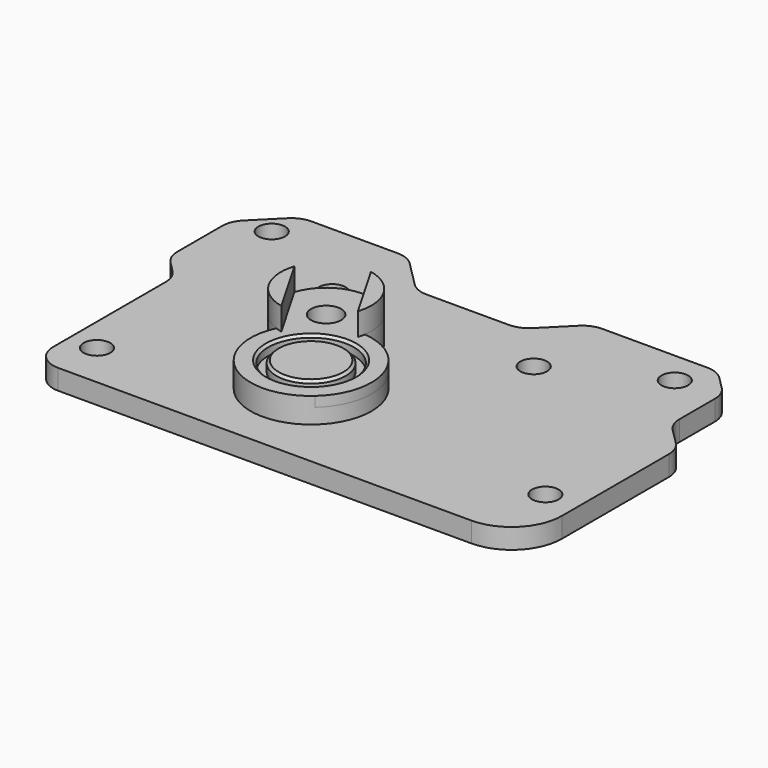
from build123d import *

# Parameters (mm, degrees)
SKETCH_R        = 12
SKETCH_R_2      = 8.5
PAD_DEPTH       = 2
SKETCH001_R     = 8.5
SKETCH001_R_2   = 3
PAD001_DEPTH    = 5
SKETCH002_R     = 8.5
PAD002_DEPTH    = 3
SKETCH003_R     = 6.9
PAD003_DEPTH    = 2
PAD004_DEPTH    = 4.5
SKETCH006_R     = 3
POCKET_DEPTH    = 5
SKETCH005_R     = 2.65
PAD005_DEPTH    = 4
POCKET001_DEPTH = 5
FILLET_R        = 5
FILLET001_R     = 10
FILLET002_R     = 5
FILLET003_R     = 5
FILLET004_R     = 5
FILLET005_R     = 5
CHAMFER_SIZE    = 0.5
CHAMFER001_SIZE = 0.5


with BuildPart() as part:
    # Sketch → Pad (new body)
    with BuildSketch(Plane.XY):
        with Locations((-10, 0)):
            Circle(SKETCH_R)
        with Locations((-10, 0)):
            Circle(SKETCH_R_2, mode=Mode.SUBTRACT)
    extrude(amount=PAD_DEPTH)

    # Sketch001 (on Face4 of Pad) → Pad001 (join)
    with BuildSketch(Plane.XY.offset(2)):
        with BuildLine():
            ThreePointArc((-20.910313, 4.996507), (-4, -10.392305), (-8.871946, 11.946861))
            ThreePointArc((-8.871946, 11.946861), (-22.25, 21.217622), (-20.910313, 4.996507))
        make_face()
        with Locations((-10, 0)):
            Circle(SKETCH001_R, mode=Mode.SUBTRACT)
        with Locations((-17.75, 13.423394)):
            Circle(SKETCH001_R_2, mode=Mode.SUBTRACT)
    extrude(amount=-PAD001_DEPTH)

    # Sketch002 (on Face6 of Pad001) → Pad002 (join)
    with BuildSketch(Plane(origin=(0, 0, -3), x_dir=(1, 0, 0), z_dir=(0, 0, -1))):
        with Locations((-10, 0)):
            Circle(SKETCH002_R)
    extrude(amount=-PAD002_DEPTH)

    # Sketch003 (on Face11 of Pad002) → Pad003 (join)
    with BuildSketch(Plane.XY):
        with Locations((-10, 0)):
            Circle(SKETCH003_R)
    extrude(amount=PAD003_DEPTH)

    # Sketch004 (on Face7 of Pad003) → Pad004 (join)
    with BuildSketch(Plane.XY.offset(2)):
        with BuildLine():
            Line((-26.300254, 16.232869), (-19.59205, 4.613919))
            ThreePointArc((-26.300254, 16.232869), (-25.544229, 8.923394), (-19.59205, 4.613919))
        make_face()
        with BuildLine():
            Line((-9.199746, 10.613919), (-15.90795, 22.232869))
            ThreePointArc((-9.199746, 10.613919), (-9.955771, 17.923394), (-15.90795, 22.232869))
        make_face()
    extrude(amount=PAD004_DEPTH)

    # Sketch006 → Pocket (cut)
    with BuildSketch(Plane.XY.offset(-3)):
        with Locations((-17.75, 13.423394)):
            Circle(SKETCH006_R)
    extrude(amount=-POCKET_DEPTH, mode=Mode.SUBTRACT)

    # Sketch005 (on Face19 of Pad004) → Pad005 (join)
    with BuildSketch(Plane.XY.offset(-3)):
        Polygon((-50, -19), (47, -19), (47, 16), (47, 19.612766), (40.954486, 25.65828), (40.954486, 38.553597), (35.588654, 43.919429), (10.631642, 43.919429), (2.616306, 35.904092), (-17.846332, 35.904092), (-25.861669, 43.919429), (-47.134287, 43.919429), (-54.927801, 36.125915), (-54.927801, 20.927801), (-50, 16), align=None)
        with Locations((40.5, -5)):
            Circle(SKETCH005_R, mode=Mode.SUBTRACT)
        with Locations((-27.75, 27.423394)):
            Circle(SKETCH005_R, mode=Mode.SUBTRACT)
        with Locations((-47.75, 37.423394)):
            Circle(SKETCH005_R, mode=Mode.SUBTRACT)
        with Locations((32.25, 37.423394)):
            Circle(SKETCH005_R, mode=Mode.SUBTRACT)
        with Locations((12.25, 27.423394)):
            Circle(SKETCH005_R, mode=Mode.SUBTRACT)
        with Locations((-44.5, -10)):
            Circle(SKETCH005_R, mode=Mode.SUBTRACT)
    extrude(amount=-PAD005_DEPTH)

    # Sketch008 (on Face5 of Pad005) → Pocket001 (cut)
    with BuildSketch(Plane(origin=(0, 0, -7), x_dir=(1, 0, 0), z_dir=(0, 0, -1))):
        Polygon((-20.75, -8.227241), (-23.75, -13.423394), (-20.75, -18.619546), (-14.75, -18.619546), (-11.75, -13.423394), (-14.75, -8.227241), align=None)
    extrude(amount=-POCKET001_DEPTH, mode=Mode.SUBTRACT)

    # Fillet
    fillet_edges = [part.edges().sort_by_distance(p)[0] for p in [
        (-50, -19, -5),
    ]]
    fillet(fillet_edges, radius=FILLET_R)

    # Fillet001
    fillet001_edges = [part.edges().sort_by_distance(p)[0] for p in [
        (47, -19, -5),
    ]]
    fillet(fillet001_edges, radius=FILLET001_R)

    # Fillet002
    fillet002_edges = [part.edges().sort_by_distance(p)[0] for p in [
        (-50, 16, -5),
    ]]
    fillet(fillet002_edges, radius=FILLET002_R)

    # Fillet003
    fillet003_edges = [part.edges().sort_by_distance(p)[0] for p in [
        (-54.927801, 20.927801, -5),
        (-54.927801, 36.125915, -5),
    ]]
    fillet(fillet003_edges, radius=FILLET003_R)

    # Fillet004
    fillet004_edges = [part.edges().sort_by_distance(p)[0] for p in [
        (-47.134287, 43.919429, -5),
        (-25.861669, 43.919429, -5),
        (-17.846332, 35.904092, -5),
        (2.616306, 35.904092, -5),
        (10.631642, 43.919429, -5),
        (35.588654, 43.919429, -5),
    ]]
    fillet(fillet004_edges, radius=FILLET004_R)

    # Fillet005
    fillet005_edges = [part.edges().sort_by_distance(p)[0] for p in [
        (47, 19.612766, -5),
        (40.954486, 25.65828, -5),
        (40.954486, 38.553597, -5),
    ]]
    fillet(fillet005_edges, radius=FILLET005_R)

    # Chamfer
    chamfer_edges = [part.edges().sort_by_distance(p)[0] for p in [
        (-16.9, 0, 2),
    ]]
    chamfer(chamfer_edges, length=CHAMFER_SIZE)

    # Chamfer001
    chamfer001_edges = [part.edges().sort_by_distance(p)[0] for p in [
        (-18.5, 0, 2),
    ]]
    chamfer(chamfer001_edges, length=CHAMFER001_SIZE)


solid = part.part
